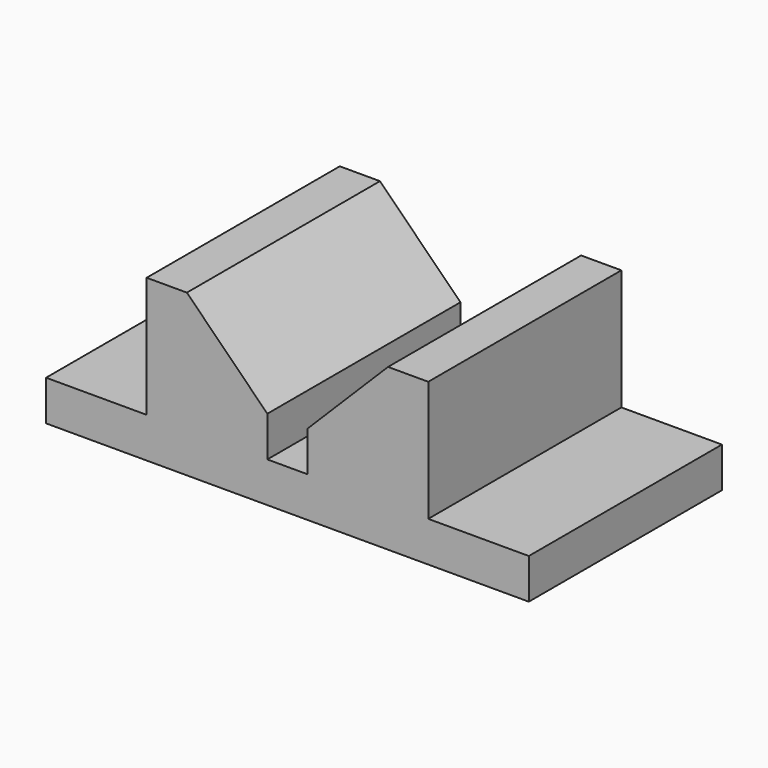
from build123d import *

# Parameters (mm, degrees)
F1_DEPTH = 38.1


with BuildPart() as f1:
    # F0 (on Front) → F1 (new body, symmetric)
    with BuildSketch(Plane.XZ):
        Polygon((-76.2, 0), (0, 0), (0, 12.7), (-6.35, 12.7), (-6.35, 25.4), (-31.75, 50.8), (-44.45, 50.8), (-44.45, 12.7), (-76.2, 12.7), align=None)
        Polygon((0, 12.7), (0, 0), (76.2, 0), (76.2, 12.7), (44.45, 12.7), (44.45, 50.8), (31.75, 50.8), (6.35, 25.4), (6.35, 12.7), align=None)
    extrude(amount=F1_DEPTH, both=True)


solid = f1.part
